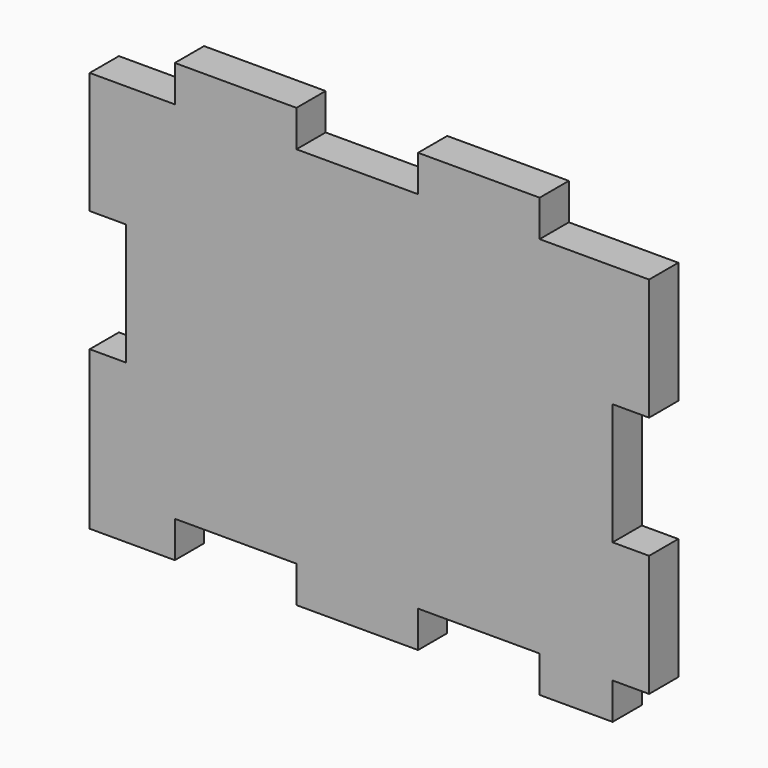
from build123d import *

# Parameters (mm, degrees)
RECTANGLE160_W                          = 3
RECTANGLE160_H                          = 10
EXTRUDE207_DEPTH                        = 3
EXTRUDE206_DEPTH                        = 3
RECTANGLE062_AS_DRAWN_W                 = 7
RECTANGLE062_AS_DRAWN_H                 = 3
EXTRUDE072_DEPTH                        = 3
EXTRUDE072_ONTO_RECTANGLE062_ROLL_ANGLE = 90
RECTANGLE060_AS_DRAWN_W                 = 10
RECTANGLE060_AS_DRAWN_H                 = 3
EXTRUDE070_DEPTH                        = 3
EXTRUDE070_ONTO_RECTANGLE060_ROLL_ANGLE = 90
RECTANGLE058_AS_DRAWN_W                 = 6
RECTANGLE058_AS_DRAWN_H                 = 3
EXTRUDE068_DEPTH                        = 3
EXTRUDE068_ONTO_RECTANGLE058_ROLL_ANGLE = 90
BOX006_W                                = 46
BOX006_H                                = 3
BOX006_DEPTH                            = 30
RECTANGLE067_AS_DRAWN_W                 = 10
RECTANGLE067_AS_DRAWN_H                 = 3
EXTRUDE077_DEPTH                        = 3
EXTRUDE077_ONTO_RECTANGLE067_ROLL_ANGLE = 90
RECTANGLE066_AS_DRAWN_W                 = 10
RECTANGLE066_AS_DRAWN_H                 = 3
EXTRUDE076_DEPTH                        = 3
EXTRUDE076_ONTO_RECTANGLE066_ROLL_ANGLE = 90


with BuildPart() as extrude207:
    # Rectangle160 → Extrude207 (new body)
    with BuildSketch(Plane(origin=(24, -68, 75), x_dir=(0, -1, 0), z_dir=(1, 0, 0))):
        with Locations((-1.5, 5)):
            Rectangle(RECTANGLE160_W, RECTANGLE160_H)
    extrude(amount=-EXTRUDE207_DEPTH)


with BuildPart() as extrude207_1:
    # Extrude207 placement: moved
    add(extrude207.part.moved(Location((-44, 0, 0))))


with BuildPart() as fusion064065:
    # Rectangle160 → Extrude206 (new body)
    with BuildSketch(Plane(origin=(24, -68, 75), x_dir=(0, -1, 0), z_dir=(1, 0, 0))):
        with Locations((-1.5, 5)):
            Rectangle(RECTANGLE160_W, RECTANGLE160_H)
    extrude(amount=-EXTRUDE206_DEPTH)


with BuildPart() as fusion064065_1:
    # Extrude206 placement: moved
    add(fusion064065.part.moved(Location((-1, 0, 0))))

    # Fusion064065: union Extrude207
    add(extrude207_1.part)


with BuildPart() as extrude072:
    # Rectangle062 as drawn → Extrude072 (new)
    with BuildSketch(Plane.XY):
        with Locations((-3.5, -1.5)):
            Rectangle(RECTANGLE062_AS_DRAWN_W, RECTANGLE062_AS_DRAWN_H)
    extrude(amount=-EXTRUDE072_DEPTH)


with BuildPart() as extrude072_1:
    # Extrude072 onto Rectangle062 roll: moved
    add(extrude072.part.rotate(Axis((0, 0, 0), (1, 0, 0)), EXTRUDE072_ONTO_RECTANGLE062_ROLL_ANGLE))


with BuildPart() as extrude072_2:
    # Extrude072 onto Rectangle062 placement: moved
    add(extrude072_1.part.moved(Location((-16, -68, 55))))


with BuildPart() as extrude070:
    # Rectangle060 as drawn → Extrude070 (new)
    with BuildSketch(Plane.XY):
        with Locations((-5, -1.5)):
            Rectangle(RECTANGLE060_AS_DRAWN_W, RECTANGLE060_AS_DRAWN_H)
    extrude(amount=-EXTRUDE070_DEPTH)


with BuildPart() as extrude070_1:
    # Extrude070 onto Rectangle060 roll: moved
    add(extrude070.part.rotate(Axis((0, 0, 0), (1, 0, 0)), EXTRUDE070_ONTO_RECTANGLE060_ROLL_ANGLE))


with BuildPart() as extrude070_2:
    # Extrude070 onto Rectangle060 placement: moved
    add(extrude070_1.part.moved(Location((4, -68, 55))))


with BuildPart() as finger_joints_aa:
    # Rectangle058 as drawn → Extrude068 (new)
    with BuildSketch(Plane.XY):
        with Locations((-3, -1.5)):
            Rectangle(RECTANGLE058_AS_DRAWN_W, RECTANGLE058_AS_DRAWN_H)
    extrude(amount=-EXTRUDE068_DEPTH)


with BuildPart() as finger_joints_aa_1:
    # Extrude068 onto Rectangle058 roll: moved
    add(finger_joints_aa.part.rotate(Axis((0, 0, 0), (1, 0, 0)), EXTRUDE068_ONTO_RECTANGLE058_ROLL_ANGLE))


with BuildPart() as finger_joints_aa_2:
    # Extrude068 onto Rectangle058 placement: moved
    add(finger_joints_aa_1.part.moved(Location((20, -68, 55))))

    # Fusion054: union Extrude072, Extrude070
    add(extrude072_2.part)
    add(extrude070_2.part)


with BuildPart() as obj1:
    # Box006 → Box006 (new body)
    with BuildSketch(Plane(origin=(-23, -68, 55), x_dir=(1, 0, 0), z_dir=(0, 0, 1))):
        with Locations((23, 1.5)):
            Rectangle(BOX006_W, BOX006_H)
    extrude(amount=BOX006_DEPTH)


with BuildPart() as obj2:
    # Rectangle067 as drawn → Extrude077 (new)
    with BuildSketch(Plane.XY):
        with Locations((-5, -1.5)):
            Rectangle(RECTANGLE067_AS_DRAWN_W, RECTANGLE067_AS_DRAWN_H)
    extrude(amount=-EXTRUDE077_DEPTH)


with BuildPart() as obj2_1:
    # Extrude077 onto Rectangle067 roll: moved
    add(obj2.part.rotate(Axis((0, 0, 0), (1, 0, 0)), EXTRUDE077_ONTO_RECTANGLE067_ROLL_ANGLE))


with BuildPart() as obj2_2:
    # Extrude077 onto Rectangle067 placement: moved
    add(obj2_1.part.moved(Location((-6, -68, 55))))


with BuildPart() as cut035055:
    # Rectangle066 as drawn → Extrude076 (new)
    with BuildSketch(Plane.XY):
        with Locations((-5, -1.5)):
            Rectangle(RECTANGLE066_AS_DRAWN_W, RECTANGLE066_AS_DRAWN_H)
    extrude(amount=-EXTRUDE076_DEPTH)


with BuildPart() as cut035055_1:
    # Extrude076 onto Rectangle066 roll: moved
    add(cut035055.part.rotate(Axis((0, 0, 0), (1, 0, 0)), EXTRUDE076_ONTO_RECTANGLE066_ROLL_ANGLE))


with BuildPart() as cut035055_2:
    # Extrude076 onto Rectangle066 placement: moved
    add(cut035055_1.part.moved(Location((14, -68, 55))))

    # Fusion057: union obj2
    add(obj2_2.part)


with BuildPart() as cut035055_3:
    # Fusion057 placement: moved
    add(cut035055_2.part.moved(Location((0, 0, 33))))

    # Fusion059: union Finger joints aa, obj1
    add(finger_joints_aa_2.part)
    add(obj1.part)

    # Cut035055: cut Fusion064065
    add(fusion064065_1.part, mode=Mode.SUBTRACT)


solid = cut035055_3.part
